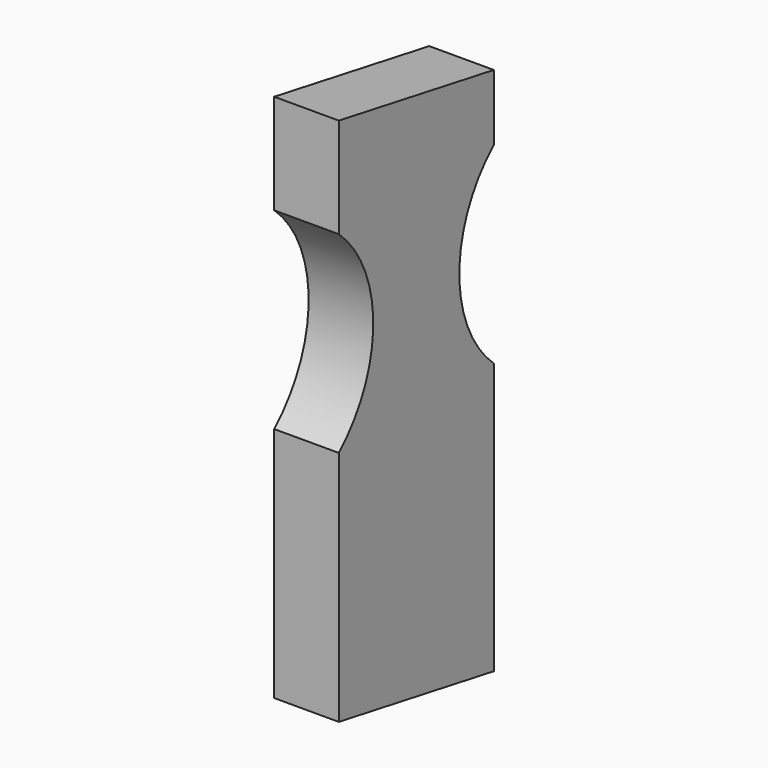
from build123d import *

# Parameters (mm, degrees)
F1_DEPTH = 38.1


with BuildPart() as f1:
    # F0 (on Right) → F1 (new body)
    with BuildSketch(Plane.YZ):
        with BuildLine():
            Line((-114.3, 0), (0, -20.154174))
            Line((0, -20.154174), (0, 139.7))
            ThreePointArc((0, 139.7), (-25.4, 196.496127), (0, 253.292253))
            Line((0, 253.292253), (0, 292.1))
            Line((0, 292.1), (-114.3, 312.254174))
            Line((-114.3, 312.254174), (-114.3, 253.292253))
            ThreePointArc((-114.3, 253.292253), (-88.9, 196.496127), (-114.3, 139.7))
            Line((-114.3, 139.7), (-114.3, 0))
        make_face()
    extrude(amount=F1_DEPTH)


solid = f1.part
